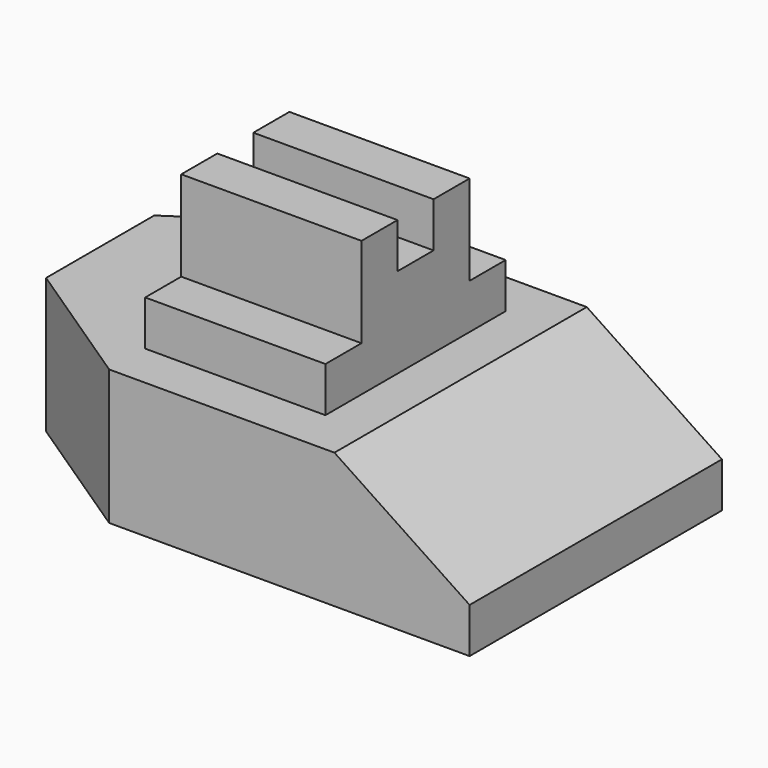
from build123d import *

# Parameters (mm, degrees)
F1_DEPTH = 35
F0_W     = 40
F0_H     = 30
F2_DEPTH = 25
F4_DEPTH = 30.001
F5_W     = 10
F5_H     = 20
F6_DEPTH = 80.001
F7_W     = 10
F7_H     = 10
F8_DEPTH = 80.001


with BuildPart() as f1:
    # F0 (on Front) → F1 (new body, symmetric)
    with BuildSketch(Plane.XZ):
        Polygon((0, 30), (0, 0), (110, 0), (110, 10), (80, 30), (70, 30), (30, 30), align=None)
    extrude(amount=F1_DEPTH, both=True)

    # F0 (on Front) → F2 (join, symmetric)
    with BuildSketch(Plane.XZ):
        with Locations((50, 45)):
            Rectangle(F0_W, F0_H)
    extrude(amount=F2_DEPTH, both=True)

    # F3 (on face) → F4 (cut, through all)
    with BuildSketch(Plane.XY.offset(30)):
        Polygon((0, -35), (30, -35), (0, -15), align=None)
        Polygon((0, 15), (30, 35), (0, 35), align=None)
    extrude(amount=-F4_DEPTH, mode=Mode.SUBTRACT)

    # F5 (on face) → F6 (cut, through all)
    with BuildSketch(Plane(origin=(30, 0, 0), x_dir=(0, -1, 0), z_dir=(-1, 0, 0))):
        with Locations((-20, 50)):
            Rectangle(F5_W, F5_H)
        with Locations((20, 50)):
            Rectangle(F5_W, F5_H)
    extrude(amount=-F6_DEPTH, mode=Mode.SUBTRACT)

    # F7 (on face) → F8 (cut, through all)
    with BuildSketch(Plane(origin=(30, 0, 0), x_dir=(0, -1, 0), z_dir=(-1, 0, 0))):
        with Locations((0, 55)):
            Rectangle(F7_W, F7_H)
    extrude(amount=-F8_DEPTH, mode=Mode.SUBTRACT)


solid = f1.part
